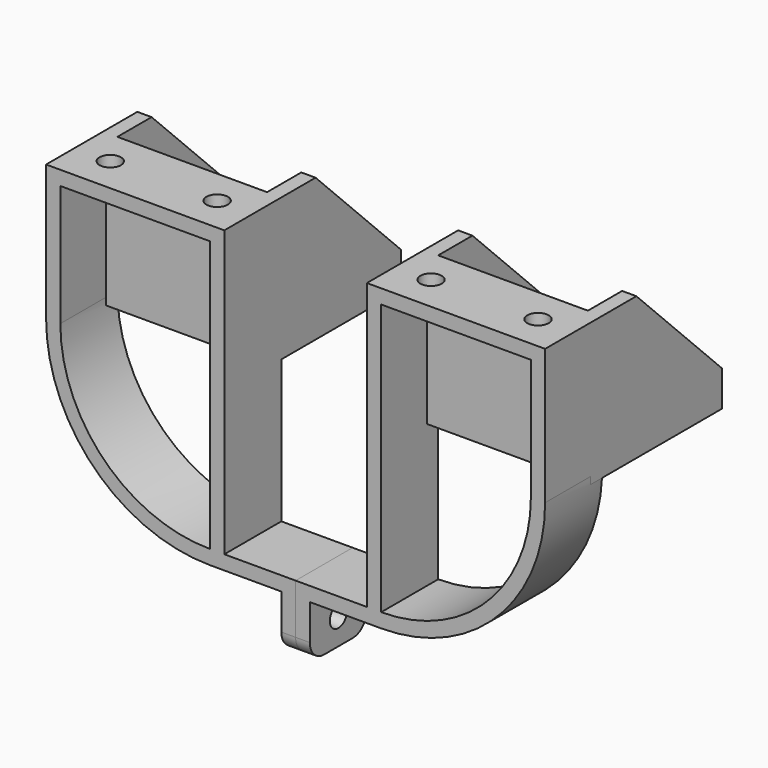
from build123d import *

# Parameters (mm, degrees)
F0_W      = 42
F0_H      = 36
F1_DEPTH  = 4
F2_DEPTH  = 42
F4_DEPTH  = 20
F5_SIZE   = 30
F6_R      = 5
F7_R      = 3
F8_DEPTH  = 25
F9_R      = 3
F10_DEPTH = 25
F11_R     = 12.5
F11_R_2   = 1.5
F12_DEPTH = 50


with BuildPart() as f1:
    # F0 (on Front) → F1 (new body)
    with BuildSketch(Plane.XZ):
        Polygon((-20, -40), (-20, 0), (-24, 0), (-24, -36), (-66, -36), (-66, 0), (-70, 0), (-70, -40), align=None)
        with Locations((-45, -18)):
            Rectangle(F0_W, F0_H)
    extrude(amount=F1_DEPTH)

    # F0 (on Front) → F2 (join)
    with BuildSketch(Plane.XZ):
        Polygon((-20, -40), (-20, 0), (-24, 0), (-24, -36), (-66, -36), (-66, 0), (-70, 0), (-70, -40), align=None)
    extrude(amount=-F2_DEPTH)

    # F3 (on Front) → F4 (join)
    with BuildSketch(Plane.XZ):
        with BuildLine():
            Line((-20, -80), (-20, 0))
            Line((-20, 0), (-70, 0))
            Line((-70, 0), (-70, -38))
            ThreePointArc((-70, -38), (-56.526912, -70.526912), (-24, -84))
            Line((-24, -84), (-4, -84))
            Line((-4, -84), (-4, -99))
            Line((-4, -99), (0, -99))
            Line((0, -99), (0, -80))
            Line((0, -80), (-20, -80))
        make_face()
        with BuildLine():
            Line((-66, -4), (-24, -4))
            Line((-24, -4), (-24, -80))
            ThreePointArc((-24, -80), (-53.698485, -67.698485), (-66, -38))
            Line((-66, -38), (-66, -4))
        make_face(mode=Mode.SUBTRACT)
    extrude(amount=F4_DEPTH)

    # F5
    f5_edges = [f1.edges().sort_by_distance(p)[0] for p in [
        (-22, 42, 0),
        (-68, 42, 0),
    ]]
    chamfer(f5_edges, length=F5_SIZE)

    # F6
    f6_edges = [f1.edges().sort_by_distance(p)[0] for p in [
        (-2, 0, -99),
        (-2, -20, -99),
    ]]
    fillet(f6_edges, radius=F6_R)

    # F7 (on Top) → F8 (cut)
    with BuildSketch(Plane.XY):
        with Locations((-30, -10)):
            Circle(F7_R)
        with Locations((-60, -10)):
            Circle(F7_R)
    extrude(amount=-F8_DEPTH, mode=Mode.SUBTRACT)

    # F9 (on Right) → F10 (cut)
    with BuildSketch(Plane.YZ):
        with Locations((-10, -91.5)):
            Circle(F9_R)
    extrude(amount=-F10_DEPTH, mode=Mode.SUBTRACT)

    # F11 (on Top) → F12 (cut)
    with BuildSketch(Plane.XY):
        with Locations((-45, 21)):
            Circle(F11_R)
        with Locations((-60.5, 36.5)):
            Circle(F11_R_2)
        with Locations((-29.5, 36.5)):
            Circle(F11_R_2)
        with Locations((-29.5, 5.5)):
            Circle(F11_R_2)
        with Locations((-60.5, 5.5)):
            Circle(F11_R_2)
    extrude(amount=-F12_DEPTH, mode=Mode.SUBTRACT)


with BuildPart() as f13_1:
    # F13: instance of F1
    add(f1.part.mirror(Plane.YZ))


solid = Compound([f1.part, f13_1.part])
